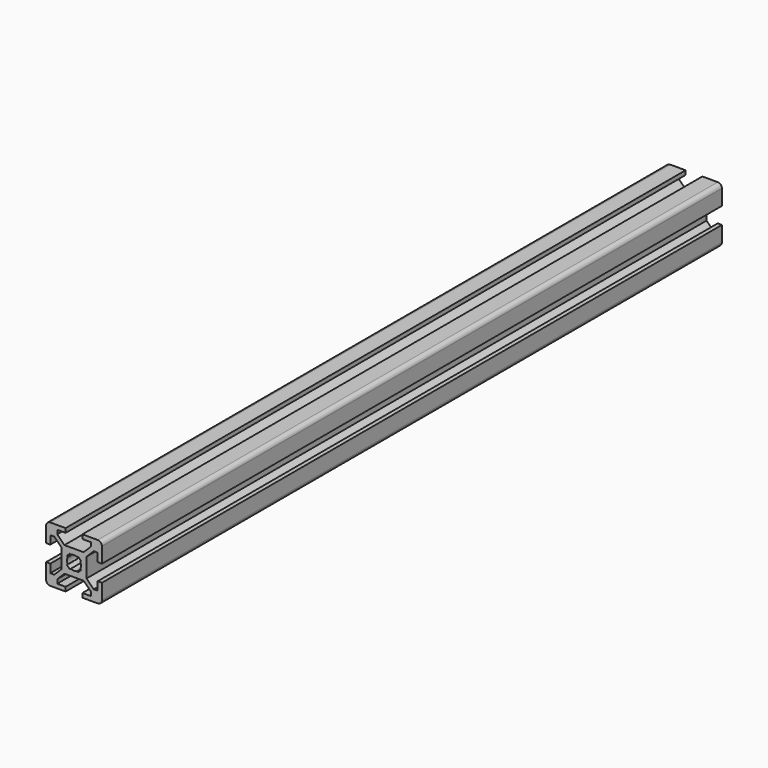
from build123d import *

# Parameters (mm, degrees)
F1_DEPTH = 277.5


with BuildPart() as f1:
    # F0 (on Front) → F1 (new body)
    with BuildSketch(Plane.XZ):
        with BuildLine():
            Line((3, -10), (8.5, -10))
            ThreePointArc((8.5, -10), (9.5606601718, -9.5606601718), (10, -8.5))
            Line((10, -8.5), (10, -3))
            Line((10, -3), (8.5, -3))
            Line((8.5, -3), (8.5, -6))
            Line((8.5, -6), (7.0606601718, -6))
            Line((7.0606601718, -6), (4.5, -3.4393398282))
            Line((4.5, -3.4393398282), (4.5, 3.4393398282))
            Line((4.5, 3.4393398282), (7.0606601718, 6))
            Line((7.0606601718, 6), (8.5, 6))
            Line((8.5, 6), (8.5, 3))
            Line((8.5, 3), (10, 3))
            Line((10, 3), (10, 8.5))
            ThreePointArc((10, 8.5), (9.5606601718, 9.5606601718), (8.5, 10))
            Line((8.5, 10), (3, 10))
            Line((3, 10), (3, 8.5))
            Line((3, 8.5), (6, 8.5))
            Line((6, 8.5), (6, 7.0606601718))
            Line((6, 7.0606601718), (3.4393398282, 4.5))
            Line((3.4393398282, 4.5), (-3.4393398282, 4.5))
            Line((-3.4393398282, 4.5), (-6, 7.0606601718))
            Line((-6, 7.0606601718), (-6, 8.5))
            Line((-6, 8.5), (-3, 8.5))
            Line((-3, 8.5), (-3, 10))
            Line((-3, 10), (-8.5, 10))
            ThreePointArc((-8.5, 10), (-9.5606601718, 9.5606601718), (-10, 8.5))
            Line((-10, 8.5), (-10, 3))
            Line((-10, 3), (-8.5, 3))
            Line((-8.5, 3), (-8.5, 6))
            Line((-8.5, 6), (-7.0606601718, 6))
            Line((-7.0606601718, 6), (-4.5, 3.4393398282))
            Line((-4.5, 3.4393398282), (-4.5, -3.4393398282))
            Line((-4.5, -3.4393398282), (-7.0606601718, -6))
            Line((-7.0606601718, -6), (-8.5, -6))
            Line((-8.5, -6), (-8.5, -3))
            Line((-8.5, -3), (-10, -3))
            Line((-10, -3), (-10, -8.5))
            ThreePointArc((-10, -8.5), (-9.5606601718, -9.5606601718), (-8.5, -10))
            Line((-8.5, -10), (-3, -10))
            Line((-3, -10), (-3, -8.5))
            Line((-3, -8.5), (-6, -8.5))
            Line((-6, -8.5), (-6, -7.0606601718))
            Line((-6, -7.0606601718), (-3.4393398282, -4.5))
            Line((-3.4393398282, -4.5), (3.4393398282, -4.5))
            Line((3.4393398282, -4.5), (6, -7.0606601718))
            Line((6, -7.0606601718), (6, -8.5))
            Line((6, -8.5), (3, -8.5))
            Line((3, -8.5), (3, -10))
        make_face()
        with BuildLine():
            ThreePointArc((-1.1560121095, 2.2166722813), (0, 2.5), (1.1560121095, 2.2166722813))
            Line((1.1560121095, 2.2166722813), (1.4393398282, 2.5))
            Line((1.4393398282, 2.5), (2.5, 1.4393398282))
            Line((2.5, 1.4393398282), (2.2166722813, 1.1560121095))
            ThreePointArc((2.2166722813, 1.1560121095), (2.5, 0), (2.2166722813, -1.1560121095))
            Line((2.2166722813, -1.1560121095), (2.5, -1.4393398282))
            Line((2.5, -1.4393398282), (1.4393398282, -2.5))
            Line((1.4393398282, -2.5), (1.1560121095, -2.2166722813))
            ThreePointArc((1.1560121095, -2.2166722813), (0, -2.5), (-1.1560121095, -2.2166722813))
            Line((-1.1560121095, -2.2166722813), (-1.4393398282, -2.5))
            Line((-1.4393398282, -2.5), (-2.5, -1.4393398282))
            Line((-2.5, -1.4393398282), (-2.2166722813, -1.1560121095))
            ThreePointArc((-2.2166722813, -1.1560121095), (-2.5, 0), (-2.2166722813, 1.1560121095))
            Line((-2.2166722813, 1.1560121095), (-2.5, 1.4393398282))
            Line((-2.5, 1.4393398282), (-1.4393398282, 2.5))
            Line((-1.4393398282, 2.5), (-1.1560121095, 2.2166722813))
        make_face(mode=Mode.SUBTRACT)
    extrude(amount=F1_DEPTH)


solid = f1.part
